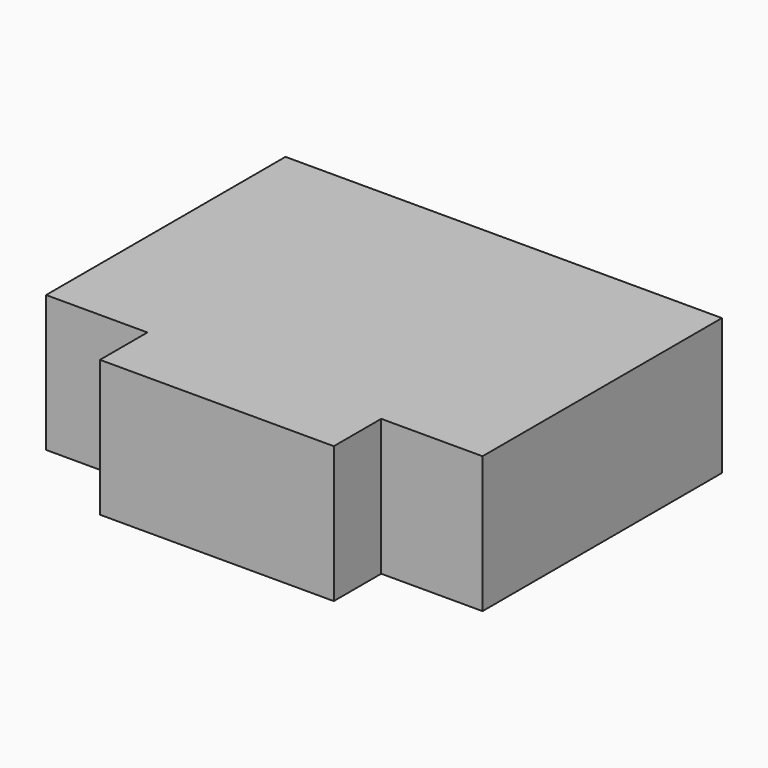
from build123d import *

# Parameters (mm, degrees)
F0_W      = 76.2002236371
F0_H      = 83.8200002909
F1_DEPTH  = 19.05
F2_W      = 70.0279923622
F2_H      = 57.9973980784
F3_DEPTH  = 15.24
F4_W      = 13.0012880329
F4_H      = 11.8417413905
F5_DEPTH  = 15.24
F6_W      = 24.8060952872
F6_H      = 10.8370622396
F7_DEPTH  = 15.24
F8_W      = 13.2993943989
F8_H      = 9.0398679234
F9_DEPTH  = 15.24
F10_W     = 64.4978582859
F10_H     = 19.05
F11_DEPTH = 33.02
F12_W     = 64.4978582859
F12_H     = 19.05
F13_DEPTH = 33.02
F14_W     = 142.2402236371
F14_H     = 19.05
F15_DEPTH = 33.02
F16_W     = 135.098611936
F16_H     = 25.4710018635
F17_DEPTH = 15.24
F18_R     = 14.7000934616
F19_DEPTH = 15.24
F20_R     = 11.4164159858
F21_DEPTH = 15.24
F23_DEPTH = 15.24
F24_DEPTH = 25.4


with BuildPart() as f1:
    # F0 (on Top) → F1 (new body)
    with BuildSketch(Plane.XY):
        with Locations((38.1001118185, 22.5878581405)):
            Rectangle(F0_W, F0_H)
    extrude(amount=F1_DEPTH)

    # F2 (on face) → F3 (cut)
    with BuildSketch(Plane(origin=(0, 0, 0), x_dir=(1, 0, 0), z_dir=(0, 0, -1))):
        with Locations((38.089536014, -28.9986990392)):
            Rectangle(F2_W, F2_H)
    extrude(amount=-F3_DEPTH, mode=Mode.SUBTRACT)

    # F4 (on face) → F5 (cut)
    with BuildSketch(Plane(origin=(0, 0, 0), x_dir=(1, 0, 0), z_dir=(0, 0, -1))):
        with Locations((13.4606149513, 9.9389031529)):
            Rectangle(F4_W, F4_H)
    extrude(amount=-F5_DEPTH, mode=Mode.SUBTRACT)

    # F6 (on face) → F7 (cut)
    with BuildSketch(Plane(origin=(0, 0, 0), x_dir=(1, 0, 0), z_dir=(0, 0, -1))):
        with Locations((39.6352009848, 9.4365635775)):
            Rectangle(F6_W, F6_H)
    extrude(amount=-F7_DEPTH, mode=Mode.SUBTRACT)

    # F8 (on face) → F9 (cut)
    with BuildSketch(Plane(origin=(0, 0, 0), x_dir=(1, 0, 0), z_dir=(0, 0, -1))):
        with Locations((66.4538349956, 10.3351607356)):
            Rectangle(F8_W, F8_H)
    extrude(amount=-F9_DEPTH, mode=Mode.SUBTRACT)

    # F10 (on face) → F11 (join)
    with BuildSketch(Plane.YZ.offset(76.2002236371)):
        with Locations((32.248929143, 9.525)):
            Rectangle(F10_W, F10_H)
    extrude(amount=F11_DEPTH)

    # F12 (on face) → F13 (join)
    with BuildSketch(Plane(origin=(0, 0, 0), x_dir=(0, -1, 0), z_dir=(-1, 0, 0))):
        with Locations((-32.248929143, 9.525)):
            Rectangle(F12_W, F12_H)
    extrude(amount=F13_DEPTH)

    # F14 (on face) → F15 (join)
    with BuildSketch(Plane(origin=(0, 64.4978582859, 0), x_dir=(-1, 0, 0), z_dir=(0, 1, 0))):
        with Locations((-38.1001118185, 9.525)):
            Rectangle(F14_W, F14_H)
    extrude(amount=F15_DEPTH)

    # F16 (on face) → F17 (cut)
    with BuildSketch(Plane(origin=(0, 0, 0), x_dir=(1, 0, 0), z_dir=(0, 0, -1))):
        with Locations((37.8726990893, -75.9849250317)):
            Rectangle(F16_W, F16_H)
    extrude(amount=-F17_DEPTH, mode=Mode.SUBTRACT)

    # F18 (on face) → F19 (cut)
    with BuildSketch(Plane(origin=(0, 0, 0), x_dir=(1, 0, 0), z_dir=(0, 0, -1))):
        with Locations((-15.4463164508, -21.2640985847)):
            Circle(F18_R)
    extrude(amount=-F19_DEPTH, mode=Mode.SUBTRACT)

    # F20 (on face) → F21 (cut)
    with BuildSketch(Plane(origin=(0, 0, 0), x_dir=(1, 0, 0), z_dir=(0, 0, -1))):
        with Locations((-14.4130205736, -48.758929143)):
            Circle(F20_R)
    extrude(amount=-F21_DEPTH, mode=Mode.SUBTRACT)

    # F22 (on face) → F23 (cut)
    with BuildSketch(Plane(origin=(0, 0, 0), x_dir=(1, 0, 0), z_dir=(0, 0, -1))):
        Polygon((91.0199095375, -10.8233336359), (82.0573866367, -10.8233336359), (82.0573866367, -54.6272806823), (103.4740805626, -54.6272806823), (103.4740805626, -31.2997968867), (91.0199095375, -31.2997968867), align=None)
    extrude(amount=-F23_DEPTH, mode=Mode.SUBTRACT)

    # F24 (add): a face of the model
    f24_faces = [f1.faces().sort_by_distance(p)[0] for p in [
        (74.3594665405, -9.6610710025, 0),
    ]]
    extrude(f24_faces, amount=F24_DEPTH)


solid = f1.part
